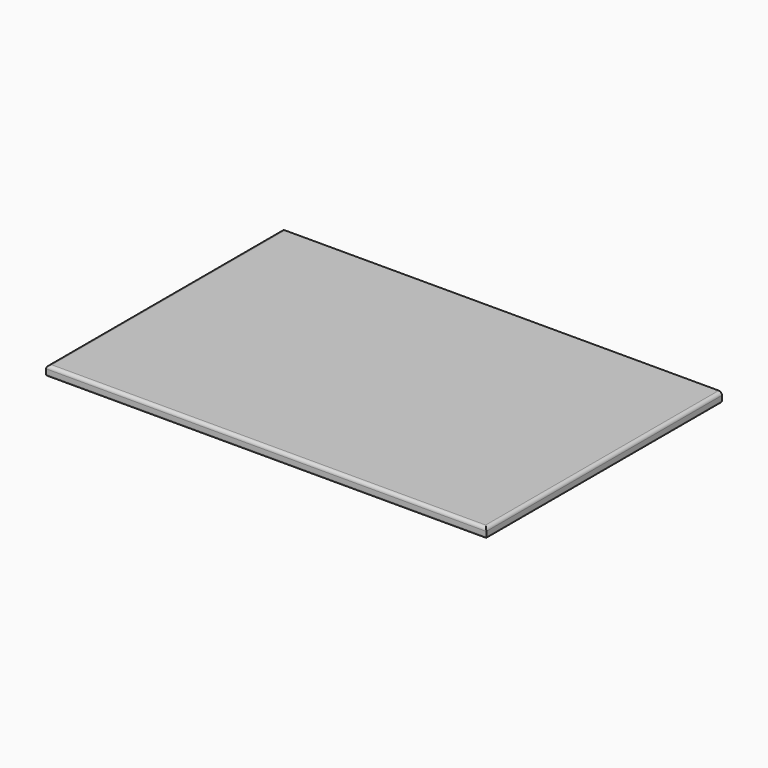
from build123d import *

# Parameters (mm, degrees)
F0_W     = 863.6
F0_H     = 577.85
F1_DEPTH = 19.05
F2_R     = 6.35
F3_R     = 3.175


with BuildPart() as f1:
    # F0 (on Top) → F1 (new body)
    with BuildSketch(Plane.XY):
        Rectangle(F0_W, F0_H)
    extrude(amount=F1_DEPTH)

    # F2
    f2_edges = [f1.edges().sort_by_distance(p)[0] for p in [
        (-431.8, 0, 19.05),
        (0, -288.925, 19.05),
        (431.8, 0, 19.05),
    ]]
    fillet(f2_edges, radius=F2_R)

    # F3
    f3_edges = [f1.edges().sort_by_distance(p)[0] for p in [
        (-431.8, 0, 0),
        (0, -288.925, 0),
        (431.8, 0, 0),
    ]]
    fillet(f3_edges, radius=F3_R)


solid = f1.part
